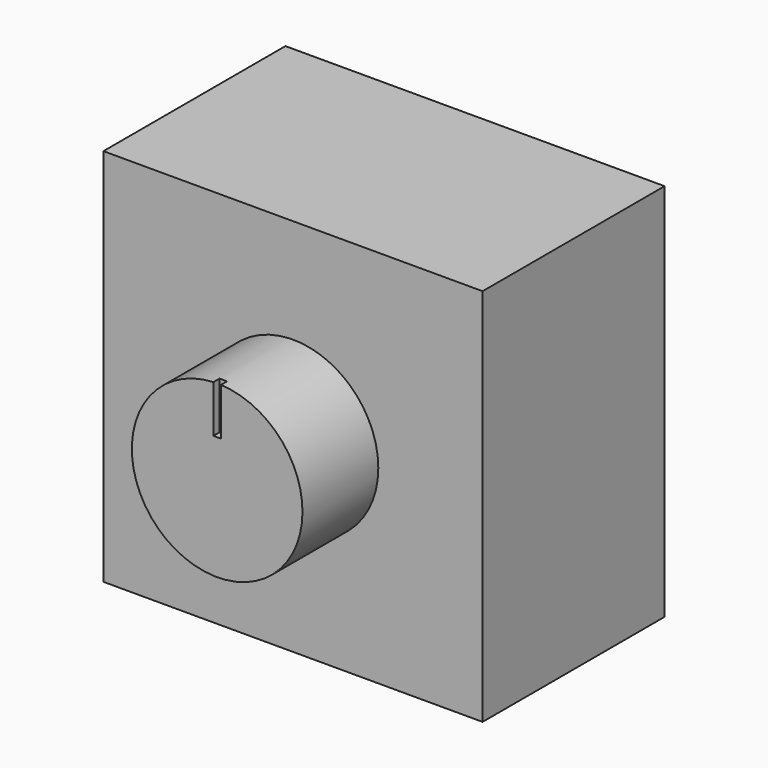
from build123d import *

# Parameters (mm, degrees)
F0_W          = 100
F0_H          = 100
F1_DEPTH      = 60
F2_R          = 22.5
F3_DEPTH      = 25
F3_DEPTH_BACK = 25
F4_W          = 2
F4_H          = 25
F5_DEPTH      = 2


with BuildPart() as f1:
    # F0 (on Front) → F1 (new body)
    with BuildSketch(Plane.XZ):
        with Locations((50, -50)):
            Rectangle(F0_W, F0_H)
    extrude(amount=F1_DEPTH)


with BuildPart() as f3:
    # F2 (on face) → F3 (new body, two sides)
    with BuildSketch(Plane.XZ.offset(60)) as f3_sk:
        with Locations((50, -50)):
            Circle(F2_R)
    extrude(amount=F3_DEPTH)
    extrude(f3_sk.sketch, amount=-F3_DEPTH_BACK)

    # F4 (on face) → F5 (cut)
    with BuildSketch(Plane.XZ.offset(85)):
        with Locations((50, -27.5)):
            Rectangle(F4_W, F4_H)
    extrude(amount=-F5_DEPTH, mode=Mode.SUBTRACT)


solid = Compound([f1.part, f3.part])
